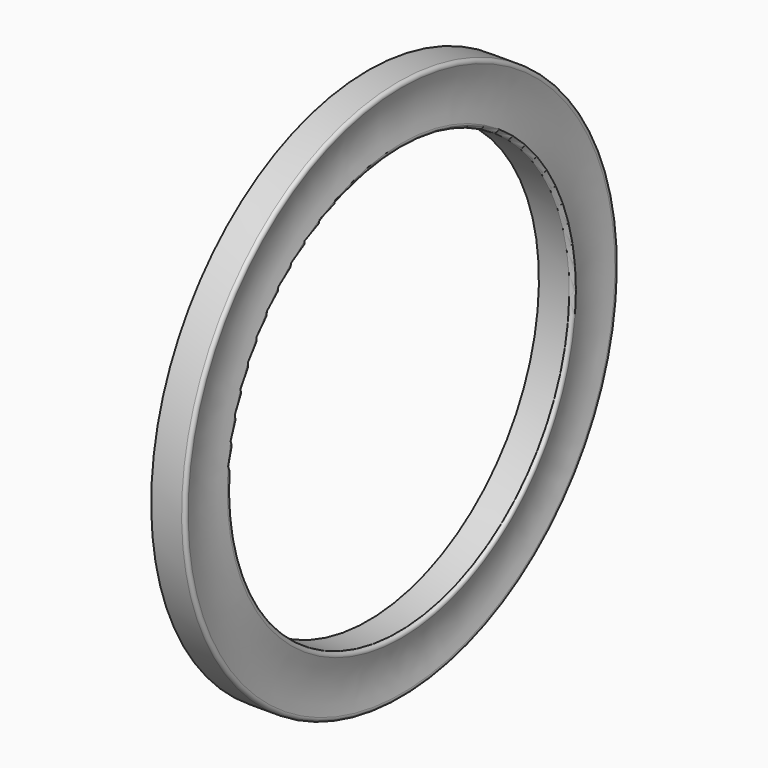
from build123d import *


with BuildPart() as f1:
    # F0 (on Front) → F1 (revolve)
    with BuildSketch(Plane.XZ):
        with BuildLine():
            ThreePointArc((-0.052881, 10.149385), (-0.072925, 10.26141), (-0.174667, 10.3124))
            Line((-0.174667, 10.3124), (-1.330392, 10.3124))
            Line((-1.330392, 10.3124), (-1.330392, 8.128))
            Line((-1.330392, 8.128), (-0.174667, 8.128))
            ThreePointArc((-0.174667, 8.128), (-0.072925, 8.17899), (-0.052881, 8.291015))
            ThreePointArc((-0.052881, 8.291015), (-0.187392, 9.2202), (-0.052881, 10.149385))
        make_face()
    revolve(axis=Axis((-3.079263, 0, 0), (-1, 0, 0)))


solid = f1.part
